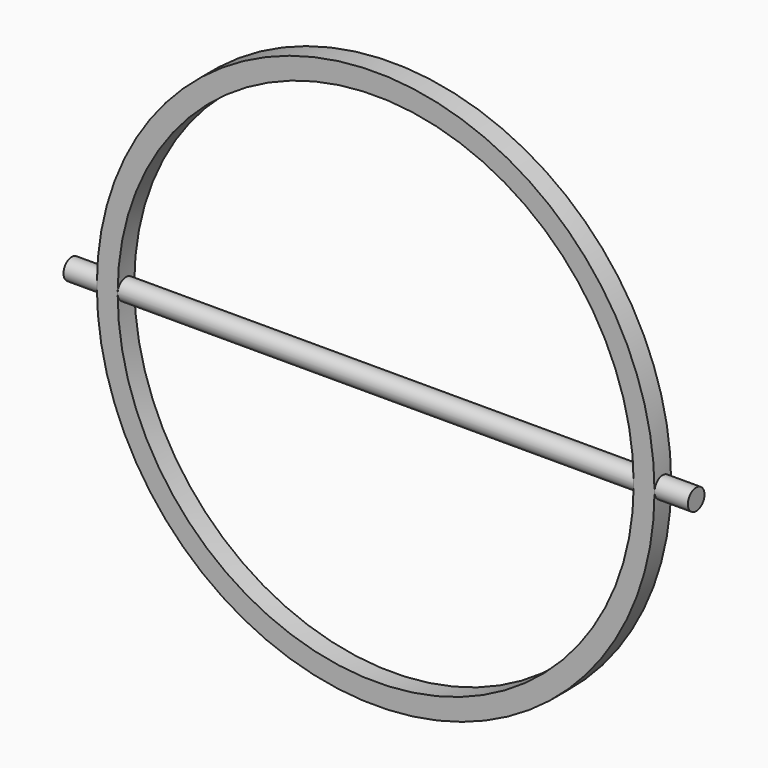
from build123d import *

# Parameters (mm, degrees)
F0_R     = 85.09
F0_R_2   = 78.74
F1_DEPTH = 6.35
F2_R     = 3.175
F3_DEPTH = 95.25


with BuildPart() as f1:
    # F0 (on Front) → F1 (new body)
    with BuildSketch(Plane.XZ):
        Circle(F0_R)
        Circle(F0_R_2, mode=Mode.SUBTRACT)
    extrude(amount=F1_DEPTH)

    # F2 (on Right) → F3 (join, symmetric)
    with BuildSketch(Plane.YZ):
        with Locations((-3.175, 0)):
            Circle(F2_R)
    extrude(amount=F3_DEPTH, both=True)


solid = f1.part
